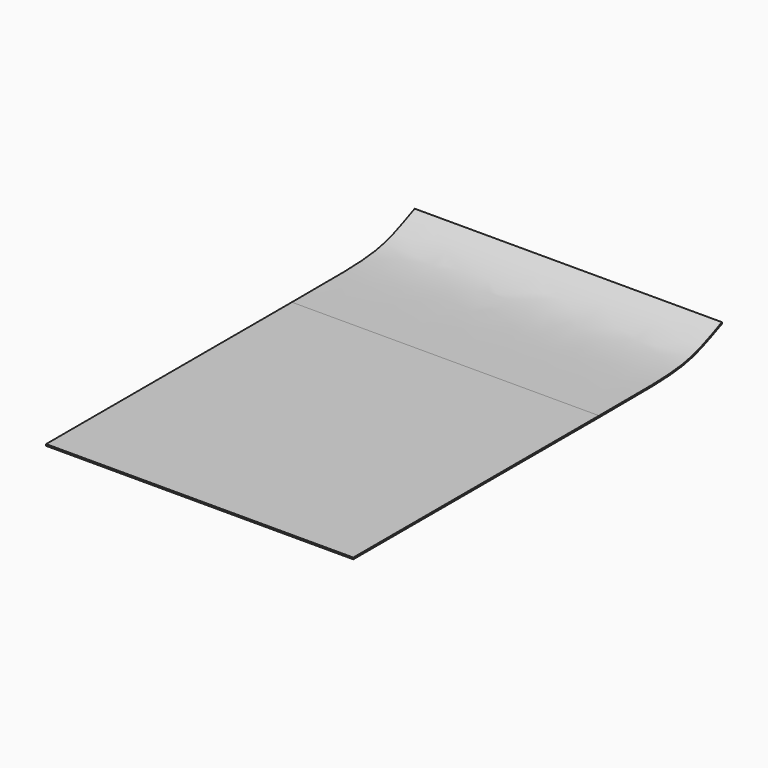
from build123d import *

# Parameters (mm, degrees)
F1_DEPTH = 1219.2


with BuildPart() as f1:
    # F0 (on Right) → F1 (new body)
    with BuildSketch(Plane.YZ):
        with BuildLine():
            Line((-1219.2, 6.35), (-1219.2, 0))
            Line((-1219.2, 0), (0, 0))
            add(Edge.make_bspline(
                [(0, 0), (430.040985, 0), (430.040985, 0), (609.6, 78.994021)],
                knots=[0, 0, 0, 0, 614.696848, 614.696848, 614.696848, 614.696848], degree=3))
            Line((609.6, 78.994021), (609.6, 85.344021))
            add(Edge.make_bspline(
                [(0, 6.35), (430.040985, 5.353022), (430.040985, 5.353022), (609.6, 85.344021)],
                knots=[0, 0, 0, 0, 614.696848, 614.696848, 614.696848, 614.696848], degree=3))
            Line((0, 6.35), (-1219.2, 6.35))
        make_face()
    extrude(amount=F1_DEPTH)


solid = f1.part
